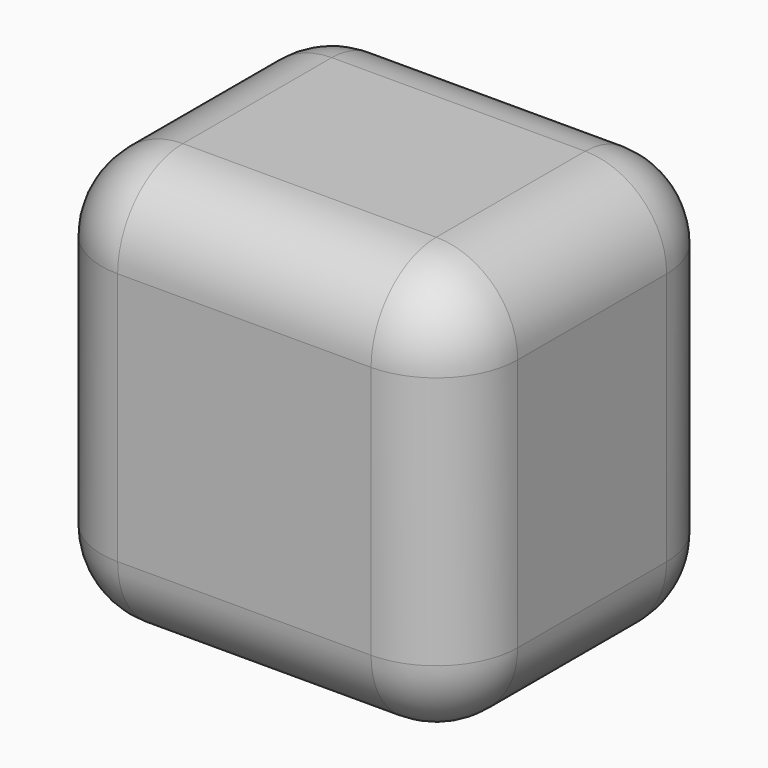
from build123d import *

# Parameters (mm, degrees)
F0_W     = 90.876468
F0_H     = 90.876468
F1_DEPTH = 76.2
F2_R     = 17.78


with BuildPart() as f1:
    # F0 (on Front) → F1 (new body)
    with BuildSketch(Plane.XZ):
        with Locations((1.403801, -26.571568)):
            Rectangle(F0_W, F0_H)
        with Locations((1.403801, -26.571568)):
            Rectangle(F0_W, F0_H)
    extrude(amount=F1_DEPTH)

    # F2
    f2_edges = [f1.edges().sort_by_distance(p)[0] for p in [
        (-44.034433, -38.1, 18.866666),
        (46.842035, -38.1, 18.866666),
        (1.403801, 0, 18.866666),
        (1.403801, -76.2, 18.866666),
        (-44.034433, 0, -26.571568),
        (1.403801, 0, -72.009802),
        (46.842035, 0, -26.571568),
        (-44.034433, -76.2, -26.571568),
        (1.403801, -76.2, -72.009802),
        (46.842035, -76.2, -26.571568),
        (46.842035, -38.1, -72.009802),
        (-44.034433, -38.1, -72.009802),
    ]]
    fillet(f2_edges, radius=F2_R)


solid = f1.part
